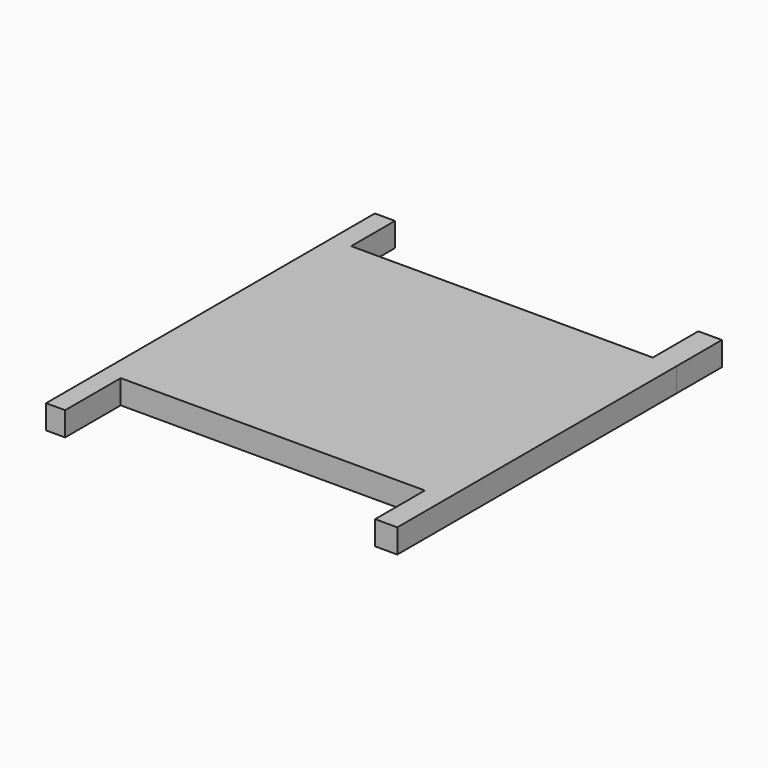
from build123d import *

# Parameters (mm, degrees)
F0_W     = 5.869098
F0_H     = 16.448125
F0_W_2   = 6.248793
F0_H_2   = 15.086499
F0_W_3   = 5.045854
F0_H_3   = 18.400892
F0_W_4   = 5.338394
F0_H_4   = 14.501419
F1_DEPTH = 6.35


with BuildPart() as f1:
    # F0 (on Top) → F1 (new body)
    with BuildSketch(Plane.XY):
        with Locations((24.084667, -42.334303)):
            Rectangle(F0_W, F0_H)
        Polygon((21.150118, -34.110241), (27.019216, -34.110241), (27.019216, 41.812751), (20.770423, 41.812751), (-59.093311, 41.812751), (-64.431705, 41.812751), (-64.431705, -34.110241), (-59.385851, -34.110241), align=None)
        with Locations((23.894819, 49.356)):
            Rectangle(F0_W_2, F0_H_2)
        with Locations((-61.908778, -43.310687)):
            Rectangle(F0_W_3, F0_H_3)
        with Locations((-61.762508, 49.06346)):
            Rectangle(F0_W_4, F0_H_4)
    extrude(amount=F1_DEPTH)


solid = f1.part
